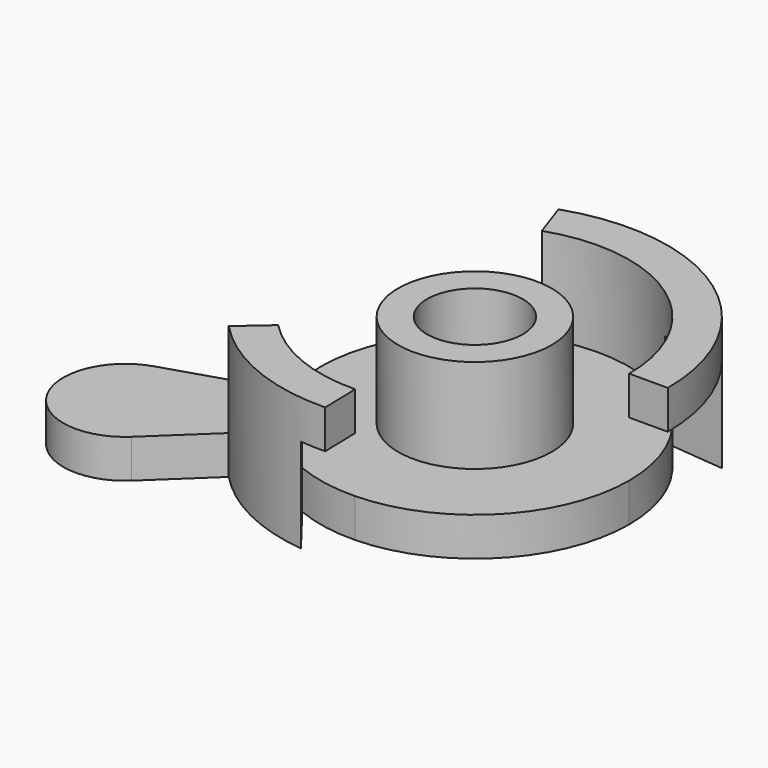
from build123d import *

# Parameters (mm, degrees)
F0_R     = 2.5146
F1_DEPTH = 2.032
F2_R     = 4.0386
F2_R_2   = 2.5146
F3_DEPTH = 4.953
F5_DEPTH = 4.953


with BuildPart() as f1:
    # F0 (on Top) → F1 (new body)
    with BuildSketch(Plane.XY):
        with BuildLine():
            ThreePointArc((0.1932728669, -8.1129981936), (5.8063138645, -5.6696396179), (8.1153, 0))
            ThreePointArc((8.1153, 0), (4.7193819453, 6.6019336671), (-2.6262691705, 7.6785939035))
            ThreePointArc((-2.6262691705, 7.6785939035), (-7.243577354, 3.6590546875), (-7.7389628282, -2.4426519264))
            ThreePointArc((-7.7389628282, -2.4426519264), (-4.7193819453, -6.6019336671), (0.1932728669, -8.1129981936))
        make_face()
        Circle(F0_R, mode=Mode.SUBTRACT)
        with BuildLine():
            ThreePointArc((-2.6262691705, 7.6785939035), (4.7193819453, 6.6019336671), (8.1153, 0))
            Line((8.1153, 0), (10.1473, 0))
            ThreePointArc((10.1473, 0), (5.9010738252, 8.255), (-3.2838639549, 9.601246524))
            Line((-3.2838639549, 9.601246524), (-2.6262691705, 7.6785939035))
        make_face()
        with BuildLine():
            Line((0.241666699, -10.1444218414), (0.1932728669, -8.1129981936))
            ThreePointArc((0.1932728669, -8.1129981936), (-4.7193819453, -6.6019336671), (-7.7389628282, -2.4426519264))
            Line((-7.7389628282, -2.4426519264), (-9.6767312985, -3.0542705621))
            ThreePointArc((-9.6767312985, -3.0542705621), (-8.7465221148, -5.1445163217), (-7.3716789291, -6.9732379177))
            ThreePointArc((-7.3716789291, -6.9732379177), (-3.9017137862, -9.3671941808), (0.241666699, -10.1444218414))
        make_face()
        with BuildLine():
            ThreePointArc((-7.3716789291, -6.9732379177), (-8.7465221148, -5.1445163217), (-9.6767312985, -3.0542705621))
            Line((-9.6767312985, -3.0542705621), (-13.4904375036, -4.2579921738))
            ThreePointArc((-13.4904375036, -4.2579921738), (-15.3146238281, -9.0077325834), (-10.2769386502, -9.7214676552))
            Line((-10.2769386502, -9.7214676552), (-7.3716789291, -6.9732379177))
        make_face()
    extrude(amount=F1_DEPTH)

    # F2 (on face) → F3 (join)
    with BuildSketch(Plane.XY.offset(2.032)):
        with BuildLine():
            Line((-5.8403095484, -5.6346143141), (-7.3716789291, -6.9732379177))
            ThreePointArc((-7.3716789291, -6.9732379177), (-3.9017137862, -9.3671941808), (0.241666699, -10.1444218414))
            Line((0.241666699, -10.1444218414), (0.1932728669, -8.1129981936))
            ThreePointArc((0.1932728669, -8.1129981936), (-3.0834805795, -7.5066797991), (-5.8403095484, -5.6346143141))
        make_face()
        Circle(F2_R)
        Circle(F2_R_2, mode=Mode.SUBTRACT)
        with BuildLine():
            ThreePointArc((-2.6262691705, 7.6785939035), (4.7193819453, 6.6019336671), (8.1153, 0))
            Line((8.1153, 0), (10.1473, 0))
            ThreePointArc((10.1473, 0), (5.9010738252, 8.255), (-3.2838639549, 9.601246524))
            Line((-3.2838639549, 9.601246524), (-2.6262691705, 7.6785939035))
        make_face()
    extrude(amount=F3_DEPTH)

    # F4 (on face) → F5 (cut)
    with BuildSketch(Plane(origin=(0, 0, 0), x_dir=(1, 0, 0), z_dir=(0, 0, -1))):
        with BuildLine():
            ThreePointArc((-3.0752344649, 7.5100617225), (-1.4721782365, 7.9806506834), (0.1932728669, 8.1129981936))
            Line((0.1932728669, 8.1129981936), (0.241666699, 10.1444218414))
            ThreePointArc((0.241666699, 10.1444218414), (-0.4196244465, 10.1386198574), (-1.079133301, 10.0897556268))
            Line((-1.079133301, 10.0897556268), (-3.0752344649, 7.5100617225))
        make_face()
        with BuildLine():
            ThreePointArc((7.9651252816, -6.2868494923), (9.5862456953, -3.3274), (10.1473, 0))
            Line((10.1473, 0), (8.1153, 0))
            ThreePointArc((8.1153, 0), (7.2163466693, -3.7124701802), (4.7186455722, -6.6024600002))
            Line((4.7186455722, -6.6024600002), (7.9651252816, -6.2868494923))
        make_face()
    extrude(amount=-F5_DEPTH, mode=Mode.SUBTRACT)


solid = f1.part
